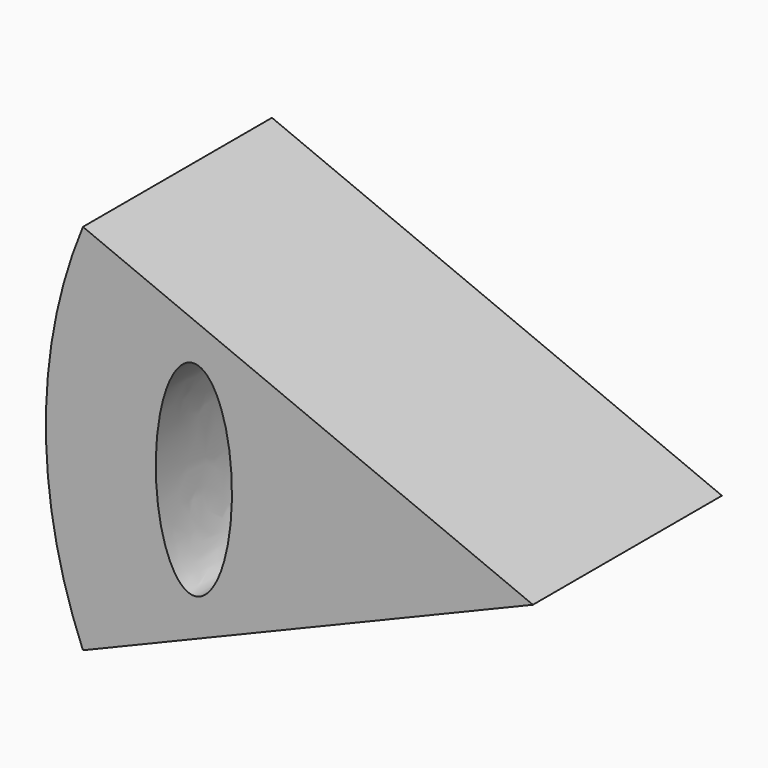
from build123d import *

# Parameters (mm, degrees)
F0_W          = 71.4033702388
F0_H          = 34.6396565437
F1_ANGLE_BACK = 22.5
F1_ANGLE      = 45
F3_DEPTH      = 34.6396565437


with BuildPart() as f1:
    # F0 (on Top) → F1 (revolve)
    with BuildSketch(Plane.XY, mode=Mode.PRIVATE) as f1_sk:
        with Locations((25.9587238543, 25.3080576658)):
            Rectangle(F0_W, F0_H)
    revolve(f1_sk.sketch.rotate(Axis((61.6604089737, 25.3080576658, 0), (0, -1, 0)), -F1_ANGLE_BACK), axis=Axis((61.6604089737, 25.3080576658, 0), (0, -1, 0)), revolution_arc=F1_ANGLE)

    # F2 (on face) → F3 (cut, through all)
    with BuildSketch(Plane.XZ.offset(-7.988229394)):
        with BuildLine():
            add(Edge.make_bspline(
                [(11.9562447071, -15.0034055114), (21.6323183135, -15.0034055114), (16.7942815103, 7.5017027557), (11.9562447071, 30.0068110228), (7.1182079039, 7.5017027557), (2.2801711007, -15.0034055114), (11.9562447071, -15.0034055114)],
                knots=[0, 0, 0, 2.0943951024, 2.0943951024, 4.1887902048, 4.1887902048, 6.2831853072, 6.2831853072, 6.2831853072], degree=2, weights=[1, 0.5, 1, 0.5, 1, 0.5, 1]))
        make_face()
    extrude(amount=-F3_DEPTH, mode=Mode.SUBTRACT)


solid = f1.part
